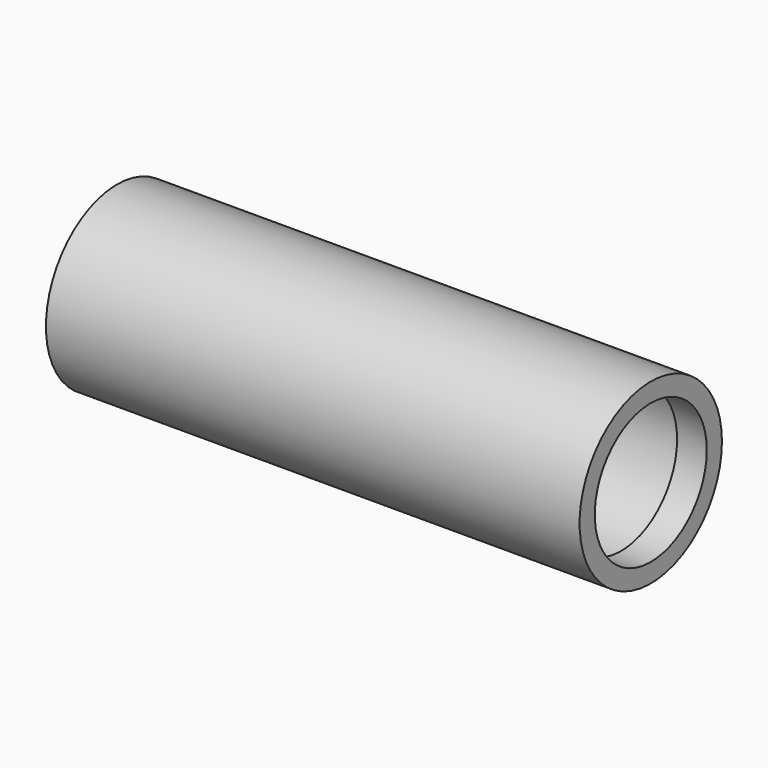
from build123d import *

# Parameters (mm, degrees)
F0_R     = 15
F0_R_2   = 13.8
F1_DEPTH = 5
F2_R     = 15
F2_R_2   = 13.8
F3_DEPTH = 80
F4_R     = 15
F4_R_2   = 13.8
F4_R_3   = 11.8
F5_DEPTH = 5


with BuildPart() as f1:
    # F0 (on Right) → F1 (new body)
    with BuildSketch(Plane.YZ):
        Circle(F0_R)
        Circle(F0_R_2, mode=Mode.SUBTRACT)
        Circle(F0_R_2)
    extrude(amount=F1_DEPTH)

    # F2 (on face) → F3 (join)
    with BuildSketch(Plane.YZ.offset(5)):
        Circle(F2_R)
        Circle(F2_R_2, mode=Mode.SUBTRACT)
    extrude(amount=F3_DEPTH)

    # F4 (on face) → F5 (join)
    with BuildSketch(Plane.YZ.offset(85)):
        Circle(F4_R)
        Circle(F4_R_2, mode=Mode.SUBTRACT)
        Circle(F4_R_2)
        Circle(F4_R_3, mode=Mode.SUBTRACT)
    extrude(amount=F5_DEPTH)


solid = f1.part
